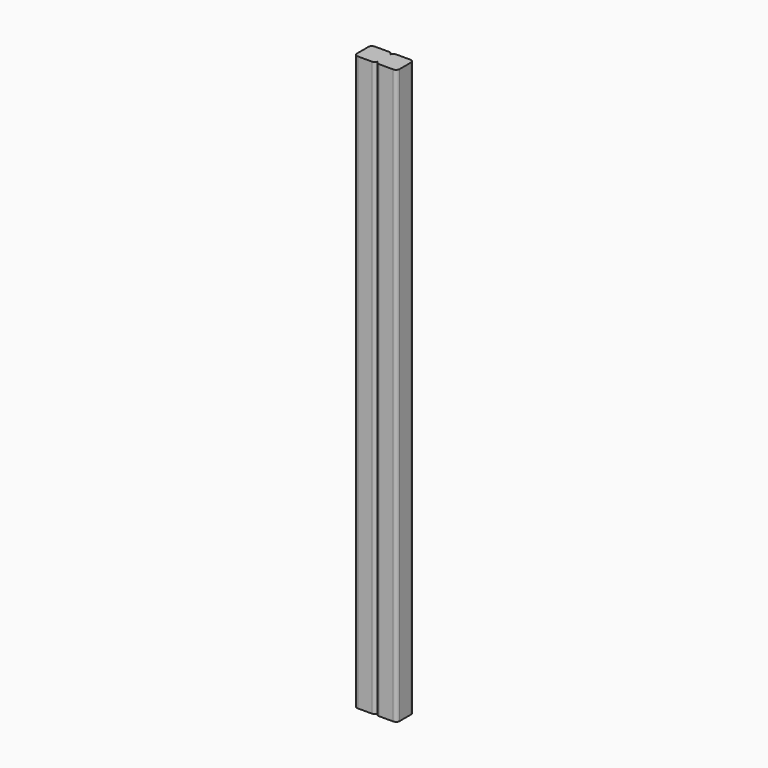
from build123d import *

# Parameters (mm, degrees)
F1_DEPTH = 1028.7


with BuildPart() as f1:
    # F0 (on Top) → F1 (new body)
    with BuildSketch(Plane.XY):
        with BuildLine():
            ThreePointArc((0, 12.596164), (-1.859872, 17.086292), (-6.35, 18.946164))
            Line((-6.35, 18.946164), (-31.75, 18.946164))
            ThreePointArc((-31.75, 18.946164), (-36.240128, 17.086292), (-38.1, 12.596164))
            Line((-38.1, 12.596164), (-38.1, -12.803836))
            ThreePointArc((-38.1, -12.803836), (-36.240128, -17.293964), (-31.75, -19.153836))
            Line((-31.75, -19.153836), (-6.35, -19.153836))
            ThreePointArc((-6.35, -19.153836), (-1.859872, -17.293964), (0, -12.803836))
            Line((0, -12.803836), (0, -12.7))
            Line((0, -12.7), (0, 12.596164))
        make_face()
        with BuildLine():
            Line((0, 12.7), (0, 12.596164))
            Line((0, 12.596164), (0, -12.7))
            ThreePointArc((0, -12.7), (1.859872, -17.190128), (6.35, -19.05))
            Line((6.35, -19.05), (31.75, -19.05))
            ThreePointArc((31.75, -19.05), (36.240128, -17.190128), (38.1, -12.7))
            Line((38.1, -12.7), (38.1, 12.7))
            ThreePointArc((38.1, 12.7), (36.240128, 17.190128), (31.75, 19.05))
            Line((31.75, 19.05), (6.35, 19.05))
            ThreePointArc((6.35, 19.05), (1.859872, 17.190128), (0, 12.7))
        make_face()
    extrude(amount=F1_DEPTH)


solid = f1.part
